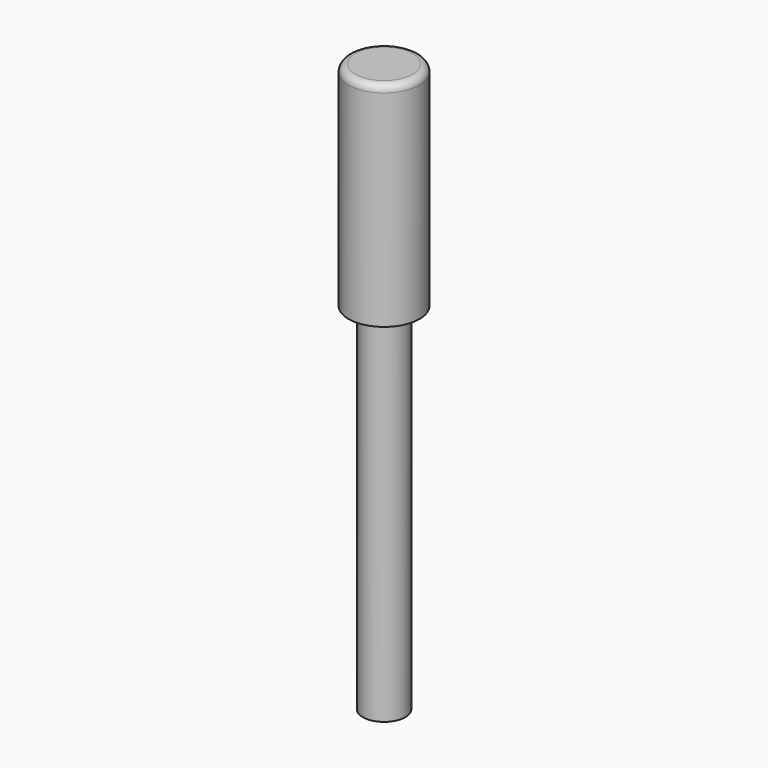
from build123d import *


with BuildPart() as f1:
    # F0 (on Front) → F1 (revolve)
    with BuildSketch(Plane.XZ):
        with BuildLine():
            Line((0, 80), (0, 0))
            Line((0, 0), (3, 0))
            Line((3, 0), (3, 49))
            ThreePointArc((3, 49), (3.292893, 49.707107), (4, 50))
            Line((4, 50), (5, 50))
            Line((5, 50), (5, 79))
            ThreePointArc((5, 79), (4.707107, 79.707107), (4, 80))
            Line((4, 80), (0, 80))
        make_face()
    revolve(axis=Axis((0, 0, 40), (0, 0, 1)))


solid = f1.part
